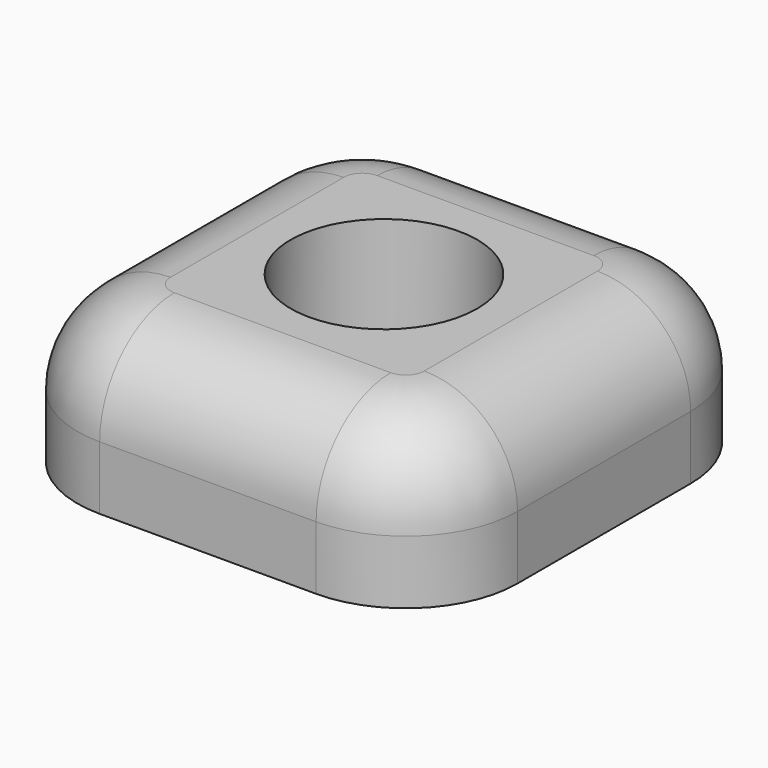
from build123d import *

# Parameters (mm, degrees)
SKETCH_R  = 2.5
PAD_DEPTH = 4.2
FILLET_R  = 2.5


with BuildPart() as part:
    # Sketch → Pad (new body)
    with BuildSketch(Plane.XY):
        with BuildLine():
            Line((-5.9, 2.9), (-5.9, -2.9))
            ThreePointArc((-5.9, -2.9), (-5.02132, -5.02132), (-2.9, -5.9))
            Line((-2.9, -5.9), (2.9, -5.9))
            ThreePointArc((2.9, -5.9), (5.02132, -5.02132), (5.9, -2.9))
            Line((5.9, -2.9), (5.9, 2.9))
            ThreePointArc((5.9, 2.9), (5.02132, 5.02132), (2.9, 5.9))
            Line((2.9, 5.9), (-2.9, 5.9))
            ThreePointArc((-2.9, 5.9), (-5.02132, 5.02132), (-5.9, 2.9))
        make_face()
        Circle(SKETCH_R, mode=Mode.SUBTRACT)
    extrude(amount=PAD_DEPTH)

    # Fillet
    fillet_edges = [part.edges().sort_by_distance(p)[0] for p in [
        (5.9, 0, 4.2),
    ]]
    fillet(fillet_edges, radius=FILLET_R)


solid = part.part
